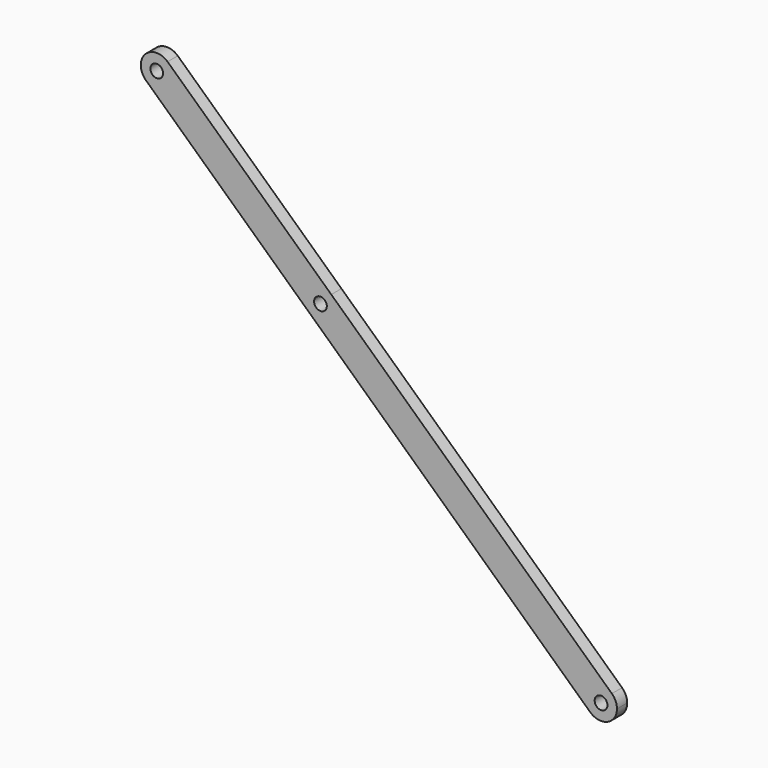
from build123d import *

# Parameters (mm, degrees)
F0_R     = 2.54
F1_DEPTH = 5.08


with BuildPart() as f1:
    # F0 (on Front) → F1 (new body)
    with BuildSketch(Plane.XZ):
        with BuildLine():
            ThreePointArc((-78.2961119143, 41.5283401708), (-71.4386747563, 40.3661663473), (-67.6296123648, 46.1856281841))
            ThreePointArc((-67.6296123648, 46.1856281841), (-68.160150528, 48.7265657925), (-69.6631128152, 50.8429161974))
            ThreePointArc((-69.6631128152, 50.8429161974), (-78.636900378, 50.5021277337), (-78.2961119143, 41.5283401708))
        make_face()
        with Locations((-73.9796123648, 46.1856281841)):
            Circle(F0_R, mode=Mode.SUBTRACT)
        with BuildLine():
            ThreePointArc((-69.6631128152, 50.8429161974), (-68.160150528, 48.7265657925), (-67.6296123648, 46.1856281841))
            ThreePointArc((-67.6296123648, 46.1856281841), (-71.4386747563, 40.3661663473), (-78.2961119143, 41.5283401708))
            Line((-78.2961119143, 41.5283401708), (-13.094079489, -18.9026537454))
            ThreePointArc((-13.094079489, -18.9026537454), (-13.4348682543, -9.9288660273), (-4.4610805236, -9.5880775949))
            Line((-4.4610805236, -9.5880775949), (-69.6631128152, 50.8429161974))
        make_face()
        with BuildLine():
            Line((107.3138316889, -113.1840666865), (-4.4610805236, -9.5880775949))
            ThreePointArc((-4.4610805236, -9.5880775949), (-2.9581183134, -11.7044279677), (-2.427580179, -14.24536551))
            ThreePointArc((-2.427580179, -14.24536551), (-6.2366424208, -20.0648272814), (-13.094079489, -18.9026537454))
            Line((-13.094079489, -18.9026537454), (98.6808325898, -122.4986427131))
            ThreePointArc((98.6808325898, -122.4986427131), (98.3400441261, -113.5248551502), (107.3138316889, -113.1840666865))
        make_face()
        with BuildLine():
            ThreePointArc((-2.427580179, -14.24536551), (-2.9581183134, -11.7044279677), (-4.4610805236, -9.5880775949))
            ThreePointArc((-4.4610805236, -9.5880775949), (-13.4348682543, -9.9288660273), (-13.094079489, -18.9026537454))
            ThreePointArc((-13.094079489, -18.9026537454), (-6.2366424208, -20.0648272814), (-2.427580179, -14.24536551))
        make_face()
        with Locations((-8.777580179, -14.24536551)):
            Circle(F0_R, mode=Mode.SUBTRACT)
        with BuildLine():
            ThreePointArc((109.3473321393, -117.8413546998), (108.8167939761, -115.3004170913), (107.3138316889, -113.1840666865))
            ThreePointArc((107.3138316889, -113.1840666865), (98.3400441261, -113.5248551502), (98.6808325898, -122.4986427131))
            ThreePointArc((98.6808325898, -122.4986427131), (105.5382697478, -123.6608165366), (109.3473321393, -117.8413546998))
        make_face()
        with Locations((102.9973321393, -117.8413546998)):
            Circle(F0_R, mode=Mode.SUBTRACT)
    extrude(amount=F1_DEPTH)


solid = f1.part
